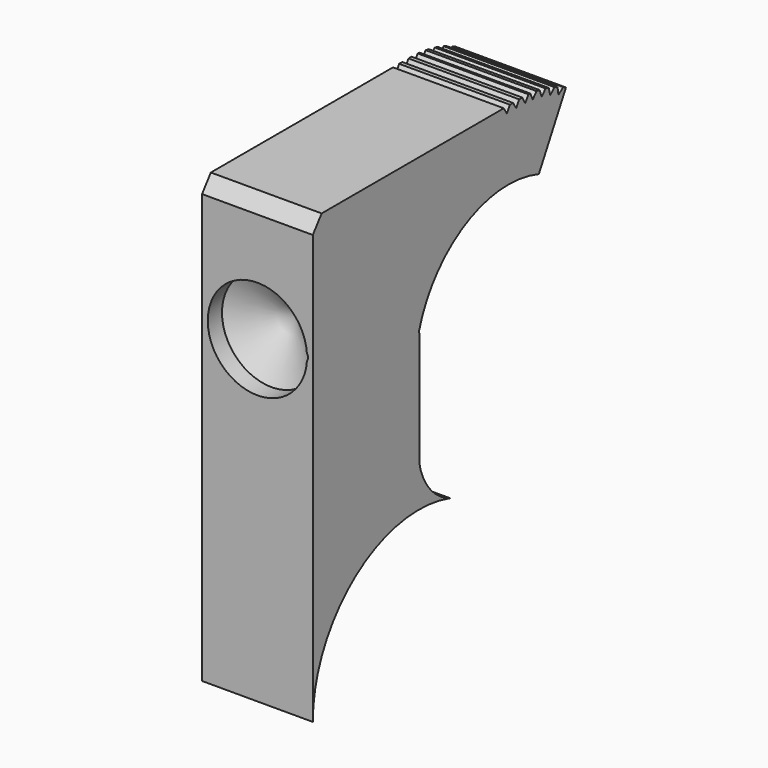
from build123d import *

# Parameters (mm, degrees)
F1_DEPTH = 3.96875
F3_D     = 7.112
F3_DEPTH = 1.27
F3_TIP   = 2.1366603613
F4_D     = 0.79375
F4_DEPTH = 6.35
F4_START = 1.7053071
F4_TIP   = 0.2384665582


with BuildPart() as f1:
    # F0 (on Right) → F1 (new body, symmetric)
    with BuildSketch(Plane.YZ):
        with BuildLine():
            ThreePointArc((-16.5820843466, -28.1687893691), (-12.7313500896, -20.5184081186), (-4.2926705349, -19.0537665343))
            ThreePointArc((-4.2926705349, -19.0537665343), (-6.0968895961, -17.7448451986), (-7.0416428507, -15.7259537276))
            Line((-7.0416428507, -15.7259537276), (-7.0416428507, -7.5320968079))
            Line((-7.0416428507, -7.5320968079), (-7.0835554391, -7.4335314032))
            ThreePointArc((-7.0835554391, -7.4335314032), (-2.909546262, -2.3362589898), (3.6604483792, -1.846658048))
            Line((3.6604483792, -1.846658048), (6.0898731954, 2.6299539005))
            ThreePointArc((6.0898731954, 2.6299539005), (5.9660197938, 2.6908408891), (5.8412454606, 2.7498176323))
            Line((5.8412454606, 2.7498176323), (5.4112701147, 2.4430661607))
            Line((5.4112701147, 2.4430661607), (5.3323597714, 2.9668079517))
            ThreePointArc((5.3323597714, 2.9668079517), (5.1993250581, 3.0175413287), (5.0655028414, 3.0661594818))
            Line((5.0655028414, 3.0661594818), (4.6760486841, 2.7215427864))
            Line((4.6760486841, 2.7215427864), (4.5437401301, 3.2333209511))
            ThreePointArc((4.5437401301, 3.2333209511), (4.4049280258, 3.2719655055), (4.2655138361, 3.3083782172))
            Line((4.2655138361, 3.3083782172), (3.9063011974, 2.9300989368))
            Line((3.9063011974, 2.9300989368), (3.7280245356, 3.4267729314))
            ThreePointArc((3.7280245356, 3.4267729314), (3.587642111, 3.4520611622), (3.4468757875, 3.4751167886))
            Line((3.4468757875, 3.4751167886), (3.1119610132, 3.0673169038))
            Line((3.1119610132, 3.0673169038), (2.9009439477, 3.5430359177))
            ThreePointArc((2.9009439477, 3.5430359177), (2.8186697806, 3.5503399623), (2.7363319231, 3.5568870884))
            Line((2.7363319231, 3.5568870884), (2.4299388255, 3.115257909))
            Line((2.4299388255, 3.115257909), (2.1822380262, 3.5812106309))
            Line((2.1822380262, 3.5812106309), (1.9028896964, 3.5812106309))
            Line((1.9028896964, 3.5812106309), (1.6272033132, 3.1312487768))
            Line((1.6272033132, 3.1312487768), (1.3515187926, 3.5812106309))
            Line((1.3515187926, 3.5812106309), (1.0721187926, 3.5812106309))
            Line((1.0721187926, 3.5812106309), (0.7964324093, 3.1312487768))
            Line((0.7964324093, 3.1312487768), (0.5218389011, 3.5812106309))
            Line((0.5218389011, 3.5812106309), (-15.7920872965, 3.5812106309))
            Line((-15.7920872965, 3.5812106309), (-16.5820843466, 2.5423362134))
            Line((-16.5820843466, 2.5423362134), (-16.5820843466, -28.1687893691))
        make_face()
    extrude(amount=F1_DEPTH, both=True)

    # F3
    with Locations(Plane.XZ.offset(16.5820843466)):
        with Locations((0, -5.3087893691)):
            Hole(F3_D / 2, depth=F3_DEPTH)
            with Locations((0, 0, -(F3_DEPTH + F3_TIP / 2))):  # 118° drill point
                Cone(0, F3_D / 2, F3_TIP, mode=Mode.SUBTRACT)

    # F4
    # its depths count from where the whole tool has entered the part; down to there all is cleared
    with Locations(Plane.XZ.offset(16.5820843466).offset(-F4_START)):
        with Locations((3.2284024637, -5.3087893691)):
            Hole(F4_D / 2, depth=F4_DEPTH)
            with Locations((0, 0, -(F4_DEPTH + F4_TIP / 2))):  # 118° drill point
                Cone(0, F4_D / 2, F4_TIP, mode=Mode.SUBTRACT)


solid = f1.part
